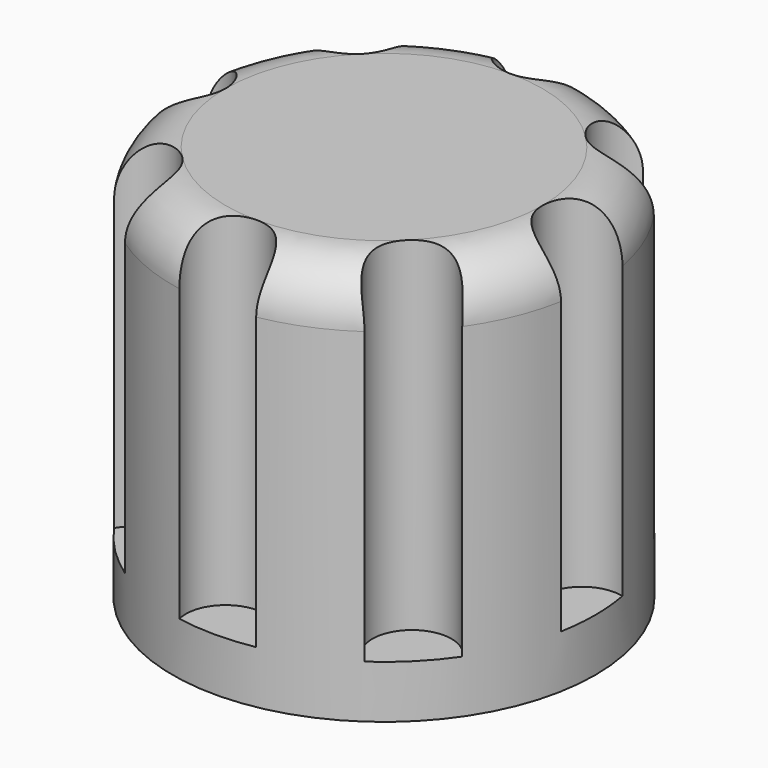
from build123d import *

# Parameters (mm, degrees)
CYLINDER001_R     = 1.5
CYLINDER001_DEPTH = 30
ARRAY_COUNT       = 8
CYLINDER_R        = 8
CYLINDER_DEPTH    = 15
FILLET_R          = 2


with BuildPart() as array:
    # Cylinder001 → Cylinder001 (new body)
    with BuildSketch(Plane(origin=(7.5, 0, 0), x_dir=(1, 0, 0), z_dir=(0, 0, 1))):
        Circle(CYLINDER001_R)
    extrude(amount=CYLINDER001_DEPTH)

    # Array: Array ×8 about axis
    array_axis = Axis((0, 0, 0), (0, 0, 1))


with BuildPart() as array_1:
    add(array.part)
    for i in range(1, ARRAY_COUNT):
        add(array.part.rotate(array_axis, i * 360 / ARRAY_COUNT))


with BuildPart() as array_2:
    # Array placement: moved
    add(array_1.part.moved(Location((0, 0, 2))))


with BuildPart() as cut:
    # Cylinder → Cylinder (new body)
    with BuildSketch(Plane.XY):
        Circle(CYLINDER_R)
    extrude(amount=CYLINDER_DEPTH)

    # Fillet
    fillet_edges = [cut.edges().sort_by_distance(p)[0] for p in [
        (-8, 0, 15),
    ]]
    fillet(fillet_edges, radius=FILLET_R)

    # Cut: cut Array
    add(array_2.part, mode=Mode.SUBTRACT)


solid = cut.part
